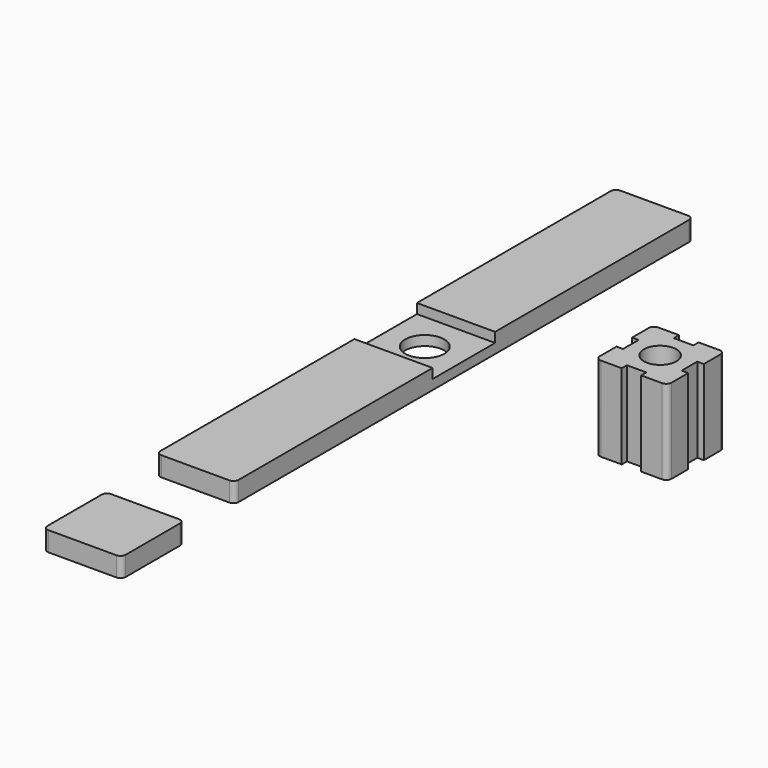
from build123d import *

# Parameters (mm, degrees)
F1_R     = 15.875
F2_DEPTH = 82.55
F3_W     = 76.2
F3_H     = 558.8
F4_DEPTH = 19.05
F3_H_2   = 76.2
F5_W     = 76.2
F5_H     = 76.2
F5_R     = 19.05
F6_DEPTH = 9.525
F7_R     = 5.08
F8_R     = 5.08
F9_DEPTH = 19.05
F10_R    = 5.08


with BuildPart() as f2:
    # F1 (on Top) → F2 (new body)
    with BuildSketch(Plane.XY):
        Polygon((57.4850961566, 39.4571875989), (32.0850961566, 39.4571875989), (32.0850961566, 14.0571875989), (38.4350961566, 14.0571875989), (38.4350961566, -4.9928124011), (32.0850961566, -4.9928124011), (32.0850961566, -30.3928124011), (57.4850961566, -30.3928124011), (57.4850961566, -24.0428124011), (76.5350961566, -24.0428124011), (76.5350961566, -30.3928124011), (101.9350961566, -30.3928124011), (101.9350961566, -4.9928124011), (95.5850961566, -4.9928124011), (95.5850961566, 14.0571875989), (101.9350961566, 14.0571875989), (101.9350961566, 39.4571875989), (76.5350961566, 39.4571875989), (76.5350961566, 33.1071875989), (57.4850961566, 33.1071875989), align=None)
        with Locations((67.0100961566, 4.5321875989)):
            Circle(F1_R, mode=Mode.SUBTRACT)
    extrude(amount=F2_DEPTH)

    # F8
    f8_edges = [f2.edges().sort_by_distance(p)[0] for p in [
        (101.935096, -30.392812, 41.275),
        (32.085096, -30.392812, 41.275),
        (101.935096, 39.457188, 41.275),
        (32.085096, 39.457188, 41.275),
    ]]
    fillet(f8_edges, radius=F8_R)


with BuildPart() as f4:
    # F3 (on Top) → F4 (new body)
    with BuildSketch(Plane.XY):
        with Locations((-169.5314869285, 13.4275996701)):
            Rectangle(F3_W, F3_H)
    extrude(amount=F4_DEPTH)

    # F5 (on face) → F6 (cut)
    with BuildSketch(Plane.XY.offset(19.05)):
        with Locations((-169.5314869285, 13.4275996701)):
            Rectangle(F5_W, F5_H)
        with Locations((-169.5314869285, 13.4275996701)):
            Circle(F5_R, mode=Mode.SUBTRACT)
        with Locations((-169.5314869285, 13.4275996701)):
            Circle(F5_R)
    extrude(amount=-F6_DEPTH, mode=Mode.SUBTRACT)

    # F7
    f7_edges = [f4.edges().sort_by_distance(p)[0] for p in [
        (-207.631487, 292.8276, 9.525),
        (-131.431487, 292.8276, 9.525),
        (-207.631487, -265.9724, 9.525),
        (-131.431487, -265.9724, 9.525),
    ]]
    fillet(f7_edges, radius=F7_R)

    # F5 (on face) → F9 (cut, through all)
    with BuildSketch(Plane.XY.offset(19.05)):
        with Locations((-169.5314869285, 13.4275996701)):
            Circle(F5_R)
    extrude(amount=-F9_DEPTH, mode=Mode.SUBTRACT)


with BuildPart() as f4b:
    # F3 (on Top) → F4, piece 2 (new body)
    with BuildSketch(Plane.XY):
        with Locations((-159.5365894079, -378.0254381657)):
            Rectangle(F3_W, F3_H_2)
    extrude(amount=F4_DEPTH)

    # F10
    f10_edges = [f4b.edges().sort_by_distance(p)[0] for p in [
        (-197.636589, -416.125438, 9.525),
        (-121.436589, -416.125438, 9.525),
        (-121.436589, -339.925438, 9.525),
        (-197.636589, -339.925438, 9.525),
    ]]
    fillet(f10_edges, radius=F10_R)


solid = Compound([f2.part, f4.part, f4b.part])
